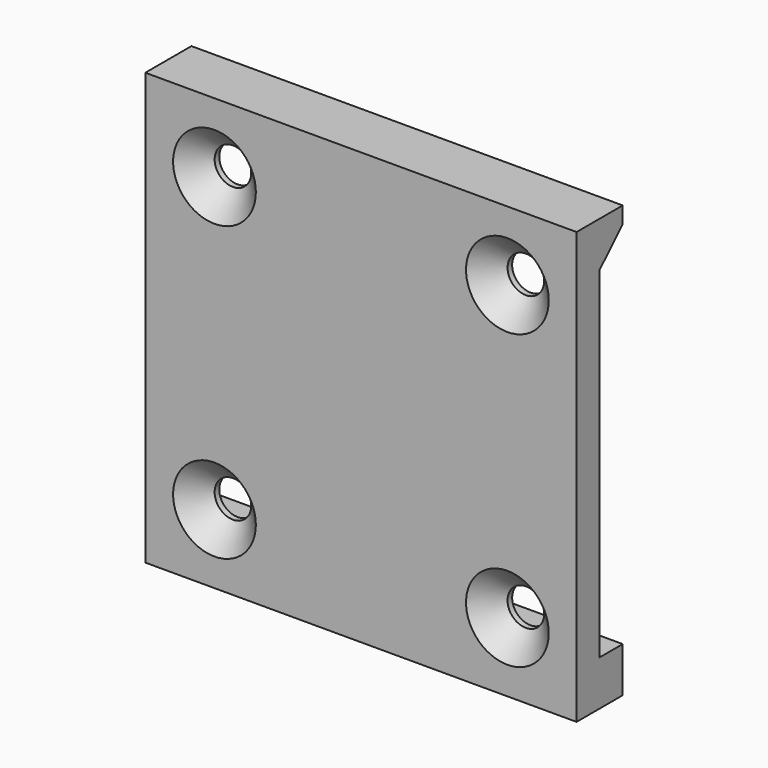
from build123d import *

# Parameters (mm, degrees)
F0_W     = 74.8
F0_H     = 74.8
F0_R     = 3.175
F1_DEPTH = 10
F3_DEPTH = 74.801
F4_SIZE  = 4


with BuildPart() as f1:
    # F0 (on Front) → F1 (new body)
    with BuildSketch(Plane.XZ):
        with Locations((-37.4, 37.4)):
            Rectangle(F0_W, F0_H)
        with Locations((-62.8, 12)):
            Circle(F0_R, mode=Mode.SUBTRACT)
        with Locations((-12, 12)):
            Circle(F0_R, mode=Mode.SUBTRACT)
        with Locations((-62.8, 62.8)):
            Circle(F0_R, mode=Mode.SUBTRACT)
        with Locations((-12, 62.8)):
            Circle(F0_R, mode=Mode.SUBTRACT)
    extrude(amount=F1_DEPTH)

    # F2 (on face) → F3 (cut, through all)
    with BuildSketch(Plane.YZ):
        Polygon((0, 15.175), (0, 59.625), (0, 65.975), (0, 71.975), (-5, 66.975), (-5, 7.825), (0, 7.825), (0, 8.825), align=None)
    extrude(amount=-F3_DEPTH, mode=Mode.SUBTRACT)

    # F4
    f4_edges = [f1.edges().sort_by_distance(p)[0] for p in [
        (-65.975, -10, 62.8),
        (-15.175, -10, 62.8),
        (-15.175, -10, 12),
        (-65.975, -10, 12),
    ]]
    chamfer(f4_edges, length=F4_SIZE)


solid = f1.part
